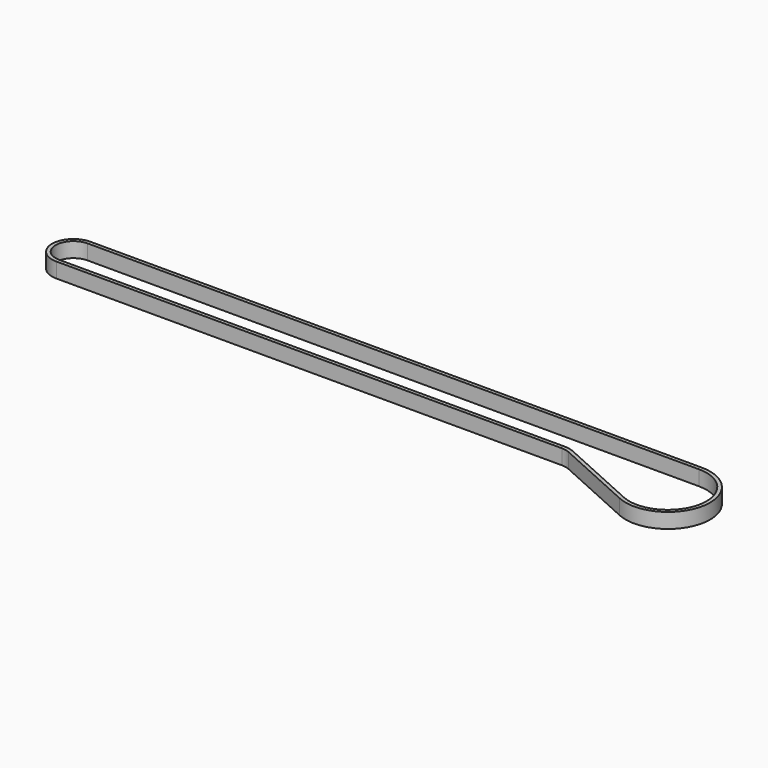
from build123d import *

# Parameters (mm, degrees)
F1_DEPTH = 9.525


with BuildPart() as f1:
    # F0 (on Top) → F1 (new body)
    with BuildSketch(Plane.XY):
        with BuildLine():
            Line((0, 2.3), (-388.263155, 2.3))
            ThreePointArc((-388.263155, 2.3), (-401.840755, -11.2776), (-388.263155, -24.8552))
            Line((-388.263155, -24.8552), (-67.131578, -24.8552))
            ThreePointArc((-67.131578, -24.8552), (-64.457855, -25.139838), (-61.903982, -25.980994))
            Line((-61.903982, -25.980994), (-11.038081, -48.955043))
            ThreePointArc((-11.038081, -48.955043), (26.215066, -30.161652), (0, 2.3))
        make_face()
        with BuildLine():
            ThreePointArc((0, 0), (23.966614, -29.677434), (-10.091351, -46.858927))
            Line((-10.091351, -46.858927), (-60.957252, -23.884878))
            ThreePointArc((-60.957252, -23.884878), (-63.973638, -22.891387), (-67.131578, -22.5552))
            Line((-67.131578, -22.5552), (-388.263155, -22.5552))
            ThreePointArc((-388.263155, -22.5552), (-399.540755, -11.2776), (-388.263155, 0))
            Line((-388.263155, 0), (0, 0))
        make_face(mode=Mode.SUBTRACT)
    extrude(amount=F1_DEPTH)


solid = f1.part
